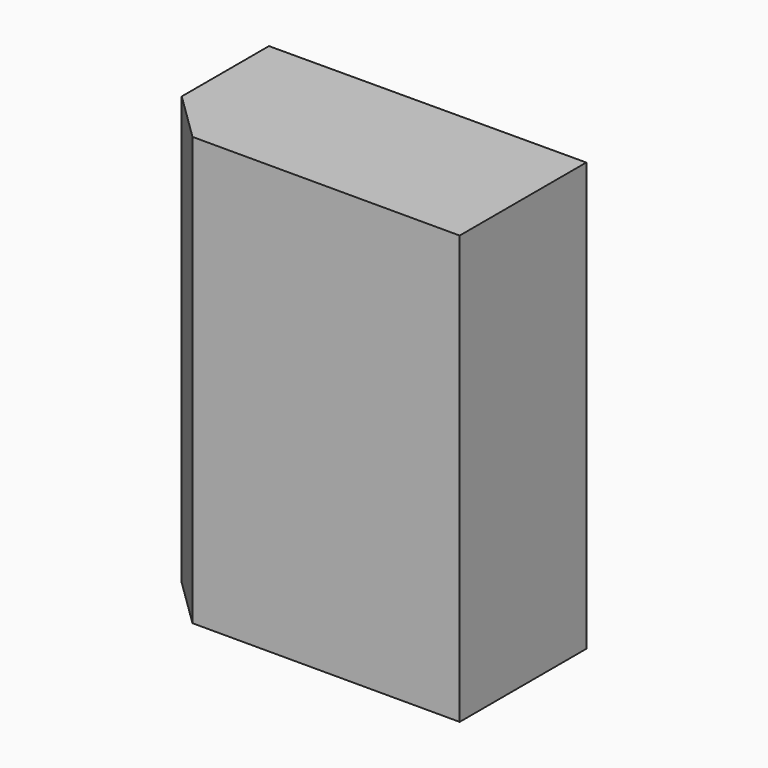
from build123d import *

# Parameters (mm, degrees)
F1_DEPTH = 900
F3_DEPTH = 20


with BuildPart() as f1:
    # F0 (on Top) → F1 (new body)
    with BuildSketch(Plane.XY):
        Polygon((0, 100), (0, 330), (-10, 330), (-10, 95.789346), (95.926052, -7.69314), (670, -7.69314), (670, 332.30686), (660, 332.30686), (660, 2.30686), (100, 2.30686), align=None)
    extrude(amount=F1_DEPTH)

    # F2 (on face) → F3 (join)
    with BuildSketch(Plane.XY.offset(900)):
        Polygon((670, 332.30686), (-10, 330), (-10, 95.789346), (95.926052, -7.69314), (670, -7.69314), align=None)
    extrude(amount=F3_DEPTH)


solid = f1.part
